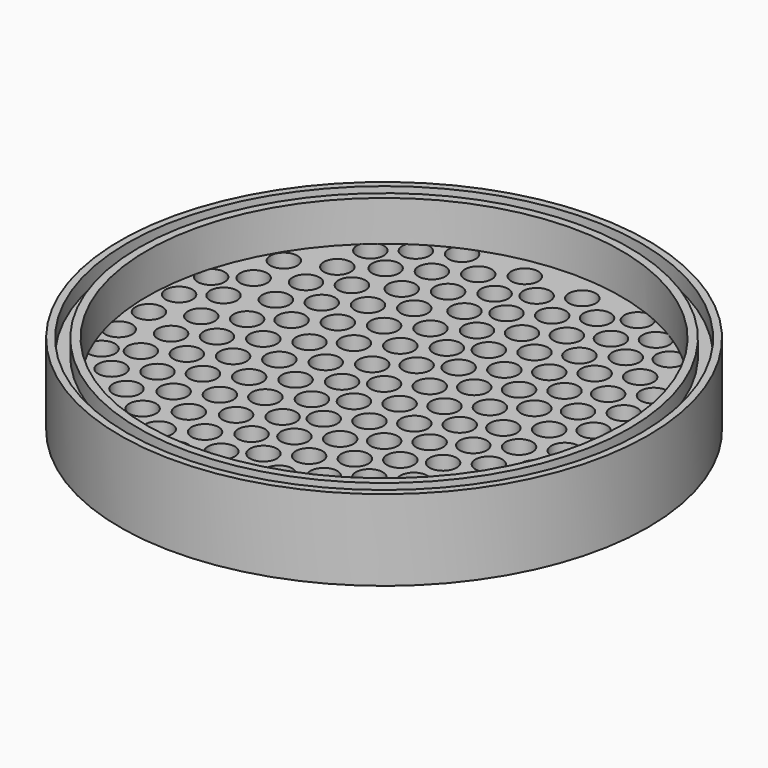
from build123d import *

# Parameters (mm, degrees)
F0_R     = 49
F0_R_2   = 47.7
F0_R_3   = 45.5
F0_R_4   = 44
F1_DEPTH = 15
F2_DEPTH = 12
F3_DEPTH = 7.5
F4_R     = 2.5
F5_DEPTH = 7.5


with BuildPart() as f1:
    # F0 (on Top) → F1 (new body)
    with BuildSketch(Plane.XY):
        Circle(F0_R)
        Circle(F0_R_2, mode=Mode.SUBTRACT)
        Circle(F0_R_3)
        Circle(F0_R_4, mode=Mode.SUBTRACT)
    extrude(amount=F1_DEPTH)

    # F0 (on Top) → F3 (join)
    with BuildSketch(Plane.XY):
        Circle(F0_R_4)
    extrude(amount=F3_DEPTH)

    # F4 (on Top) → F5 (cut)
    with BuildSketch(Plane.XY):
        with Locations((22.13777, -6.986234)):
            Circle(F4_R)
        with Locations((-16.639294, 38.89593)):
            Circle(F4_R)
        with Locations((-5.17663, -31.280754)):
            Circle(F4_R)
        with Locations((22.298033, -20.984399)):
            Circle(F4_R)
        with Locations((-23.001111, 14.282213)):
            Circle(F4_R)
        with Locations((-40.742316, 3.360694)):
            Circle(F4_R)
        with Locations((-22.503829, 0.092357)):
            Circle(F4_R)
        with Locations((-5.016367, -17.280754)):
            Circle(F4_R)
        with Locations((11.195929, 28.42376)):
            Circle(F4_R)
        with Locations((-28.250203, 24.460297)):
            Circle(F4_R)
        with Locations((16.5823, -31.165014)):
            Circle(F4_R)
        with Locations((-5.181137, 32.127409)):
            Circle(F4_R)
        with Locations((16.482411, -38.164301)):
            Circle(F4_R)
        with Locations((-22.508336, 35.502355)):
            Circle(F4_R)
        with Locations((33.698324, -20.9844)):
            Circle(F4_R)
        with Locations((-22.503829, -13.907643)):
            Circle(F4_R)
        with Locations((27.348352, 10.809978)):
            Circle(F4_R)
        with Locations((-16.634787, -24.512233)):
            Circle(F4_R)
        with Locations((-33.975781, -6.959921)):
            Circle(F4_R)
        with Locations((21.792882, 7.629364)):
            Circle(F4_R)
        with Locations((-5.17663, -10.282589)):
            Circle(F4_R)
        with Locations((-17.293248, 17.88857)):
            Circle(F4_R)
        with Locations((16.411017, 10.809975)):
            Circle(F4_R)
        with Locations((21.792882, 21.629364)):
            Circle(F4_R)
        with Locations((-40.742316, -10.639306)):
            Circle(F4_R)
        with Locations((-28.211693, -24.512164)):
            Circle(F4_R)
        with Locations((-33.975781, -13.959921)):
            Circle(F4_R)
        with Locations((-40.54993, 10.558399)):
            Circle(F4_R)
        with Locations((-17.293248, 10.88857)):
            Circle(F4_R)
        with Locations((-16.634787, -31.512233)):
            Circle(F4_R)
        with Locations((-22.508336, 28.502355)):
            Circle(F4_R)
        with Locations((-5.181137, 25.127409)):
            Circle(F4_R)
        with Locations((39.311666, 3.668006)):
            Circle(F4_R)
        with Locations((22.13777, 0.013766)):
            Circle(F4_R)
        with Locations((-5.17663, -24.280754)):
            Circle(F4_R)
        with Locations((-23.001111, 21.282213)):
            Circle(F4_R)
        with Locations((-33.815518, -20.958087)):
            Circle(F4_R)
        with Locations((21.792882, 14.629364)):
            Circle(F4_R)
        with Locations((16.804213, 31.633507)):
            Circle(F4_R)
        with Locations((-16.634787, -3.514068)):
            Circle(F4_R)
        with Locations((-16.734676, -38.51152)):
            Circle(F4_R)
        with Locations((11.195929, 35.42376)):
            Circle(F4_R)
        with Locations((33.538061, -13.986235)):
            Circle(F4_R)
        with Locations((-28.765199, 17.836291)):
            Circle(F4_R)
        with Locations((11.200436, 0.013763)):
            Circle(F4_R)
        with Locations((39.151403, -3.331994)):
            Circle(F4_R)
        with Locations((-27.705565, 31.439077)):
            Circle(F4_R)
        with Locations((38.574647, -17.049979)):
            Circle(F4_R)
        with Locations((11.200436, -6.986237)):
            Circle(F4_R)
        with Locations((40.229685, -10.248446)):
            Circle(F4_R)
        with Locations((-10.534888, -40.882464)):
            Circle(F4_R)
        with Locations((-22.343566, -20.905808)):
            Circle(F4_R)
        with Locations((22.13777, -27.984399)):
            Circle(F4_R)
        with Locations((-10.84784, 0.013763)):
            Circle(F4_R)
        with Locations((22.13777, -13.986234)):
            Circle(F4_R)
        with Locations((-28.765199, 10.836291)):
            Circle(F4_R)
        with Locations((-5.276519, -38.280041)):
            Circle(F4_R)
        with Locations((32.845954, 21.571494)):
            Circle(F4_R)
        with Locations((16.556348, 24.637897)):
            Circle(F4_R)
        with Locations((-23.001111, 7.282213)):
            Circle(F4_R)
        with Locations((-40.742316, -3.639306)):
            Circle(F4_R)
        with Locations((27.348352, 17.809978)):
            Circle(F4_R)
        with Locations((5.210582, 17.796212)):
            Circle(F4_R)
        with Locations((-22.503829, -6.907643)):
            Circle(F4_R)
        with Locations((-38.901456, -16.916174)):
            Circle(F4_R)
        with Locations((-22.503829, -27.905808)):
            Circle(F4_R)
        with Locations((16.204242, 38.633507)):
            Circle(F4_R)
        with Locations((-10.84784, -6.986237)):
            Circle(F4_R)
        with Locations((22.13777, -34.984399)):
            Circle(F4_R)
        with Locations((22.133263, 35.423764)):
            Circle(F4_R)
        with Locations((-35.531734, 21.156907)):
            Circle(F4_R)
        with Locations((32.845954, 14.571494)):
            Circle(F4_R)
        with Locations((11.200436, -13.986237)):
            Circle(F4_R)
        with Locations((22.133263, 28.423764)):
            Circle(F4_R)
        with Locations((-35.531734, 14.156907)):
            Circle(F4_R)
        with Locations((32.845954, 7.571494)):
            Circle(F4_R)
        with Locations((11.360699, -20.984403)):
            Circle(F4_R)
        with Locations((5.210582, 10.796212)):
            Circle(F4_R)
        with Locations((-22.503829, -34.905808)):
            Circle(F4_R)
        with Locations((-10.84784, -13.986237)):
            Circle(F4_R)
        with Locations((27.635372, 3.775282)):
            Circle(F4_R)
        with Locations((-16.639294, 24.89593)):
            Circle(F4_R)
        with Locations((11.200436, -27.984403)):
            Circle(F4_R)
        with Locations((-16.474524, -17.512233)):
            Circle(F4_R)
        with Locations((10.855545, 21.340017)):
            Circle(F4_R)
        with Locations((33.538061, -6.986235)):
            Circle(F4_R)
        with Locations((-28.211693, 3.486001)):
            Circle(F4_R)
        with Locations((-10.687577, -20.984402)):
            Circle(F4_R)
        with Locations((16.5823, -24.165014)):
            Circle(F4_R)
        with Locations((27.635372, -3.224718)):
            Circle(F4_R)
        with Locations((-5.181137, 39.127409)):
            Circle(F4_R)
        with Locations((27.518008, 31.890642)):
            Circle(F4_R)
        with Locations((-11.424205, 7.282144)):
            Circle(F4_R)
        with Locations((-35.531734, 7.156907)):
            Circle(F4_R)
        with Locations((-33.975781, 0.040079)):
            Circle(F4_R)
        with Locations((16.411017, 17.809975)):
            Circle(F4_R)
        with Locations((38.488936, 17.491298)):
            Circle(F4_R)
        with Locations((11.200436, -34.984403)):
            Circle(F4_R)
        with Locations((10.855545, 14.340017)):
            Circle(F4_R)
        with Locations((-28.211693, -3.513999)):
            Circle(F4_R)
        with Locations((-10.84784, -27.984402)):
            Circle(F4_R)
        with Locations((27.635372, -10.224718)):
            Circle(F4_R)
        with Locations((27.635808, 24.891633)):
            Circle(F4_R)
        with Locations((-0.004507, 35.409998)):
            Circle(F4_R)
        with Locations((38.748643, 10.491298)):
            Circle(F4_R)
        with Locations((27.635372, -31.222884)):
            Circle(F4_R)
        with Locations((16.5823, -10.166848)):
            Circle(F4_R)
        with Locations((-11.424205, 21.282144)):
            Circle(F4_R)
        with Locations((0.033952, 14.513624)):
            Circle(F4_R)
        with Locations((5.640456, 31.953802)):
            Circle(F4_R)
        with Locations((-5.17663, -3.282589)):
            Circle(F4_R)
        with Locations((5.545074, -38.453648)):
            Circle(F4_R)
        with Locations((-5.17663, 3.717411)):
            Circle(F4_R)
        Circle(F4_R)
        with Locations((0, -7)):
            Circle(F4_R)
        with Locations((0, -14)):
            Circle(F4_R)
        with Locations((16.5823, 3.833152)):
            Circle(F4_R)
        with Locations((0.160263, -20.998165)):
            Circle(F4_R)
        with Locations((10.855545, 7.340017)):
            Circle(F4_R)
        with Locations((-28.211693, -10.513999)):
            Circle(F4_R)
        with Locations((0, -27.998165)):
            Circle(F4_R)
        with Locations((-10.84784, -34.984402)):
            Circle(F4_R)
        with Locations((27.795635, -17.222884)):
            Circle(F4_R)
        with Locations((-10.852347, 35.423761)):
            Circle(F4_R)
        with Locations((0, -34.998165)):
            Circle(F4_R)
        with Locations((-0.004507, 28.409998)):
            Circle(F4_R)
        with Locations((-5.637258, 17.809976)):
            Circle(F4_R)
        with Locations((-0.099889, -41.997452)):
            Circle(F4_R)
        with Locations((5.644963, 3.543804)):
            Circle(F4_R)
        with Locations((5.644963, -3.456196)):
            Circle(F4_R)
        with Locations((5.644963, -10.456196)):
            Circle(F4_R)
        with Locations((33.538061, 0.013765)):
            Circle(F4_R)
        with Locations((16.742563, -17.165014)):
            Circle(F4_R)
        with Locations((5.805226, -17.454361)):
            Circle(F4_R)
        with Locations((-11.424205, 14.282144)):
            Circle(F4_R)
        with Locations((0.033952, 7.513624)):
            Circle(F4_R)
        with Locations((-28.211693, -31.512164)):
            Circle(F4_R)
        with Locations((5.644963, -24.454361)):
            Circle(F4_R)
        with Locations((-16.634787, -10.514068)):
            Circle(F4_R)
        with Locations((-16.639294, 31.89593)):
            Circle(F4_R)
        with Locations((5.644963, -31.454361)):
            Circle(F4_R)
        with Locations((5.640456, 24.953802)):
            Circle(F4_R)
        with Locations((16.5823, -3.166848)):
            Circle(F4_R)
        with Locations((0.033952, 21.513624)):
            Circle(F4_R)
        with Locations((-28.05143, -17.512164)):
            Circle(F4_R)
        with Locations((-16.634787, 3.485932)):
            Circle(F4_R)
        with Locations((27.635372, -24.222884)):
            Circle(F4_R)
        with Locations((-10.852347, 28.423761)):
            Circle(F4_R)
        with Locations((5.640456, 38.953802)):
            Circle(F4_R)
        with Locations((-5.637258, 10.809976)):
            Circle(F4_R)
    extrude(amount=F5_DEPTH, mode=Mode.SUBTRACT)


with BuildPart() as f2:
    # F0 (on Top) → F2 (new body)
    with BuildSketch(Plane.XY):
        Circle(F0_R_2)
        Circle(F0_R_3, mode=Mode.SUBTRACT)
    extrude(amount=F2_DEPTH)


solid = Compound([f1.part, f2.part])
